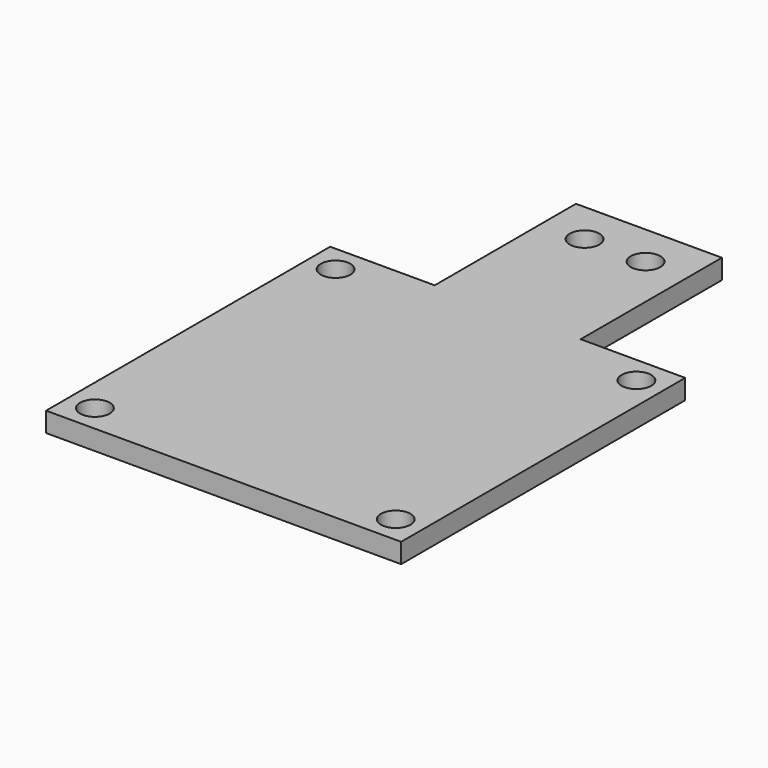
from build123d import *

# Parameters (mm, degrees)
F0_R     = 1.5
F0_W     = 14.8
F0_H     = 17.9
F1_DEPTH = 2


with BuildPart() as f1:
    # F0 (on Top) → F1 (new body)
    with BuildSketch(Plane.XY):
        Polygon((-7.4, 18), (-18, 18), (-18, -18), (18, -18), (18, 18), (7.4, 18), align=None)
        with Locations((-15.25, -15.25)):
            Circle(F0_R, mode=Mode.SUBTRACT)
        with Locations((15.25, -15.25)):
            Circle(F0_R, mode=Mode.SUBTRACT)
        with Locations((-15.25, 15.25)):
            Circle(F0_R, mode=Mode.SUBTRACT)
        with Locations((15.25, 15.25)):
            Circle(F0_R, mode=Mode.SUBTRACT)
        with Locations((0, 26.95)):
            Rectangle(F0_W, F0_H)
        with Locations((-3.08587, 31.6)):
            Circle(F0_R, mode=Mode.SUBTRACT)
        with Locations((3.1, 31.6)):
            Circle(F0_R, mode=Mode.SUBTRACT)
    extrude(amount=F1_DEPTH)


solid = f1.part
